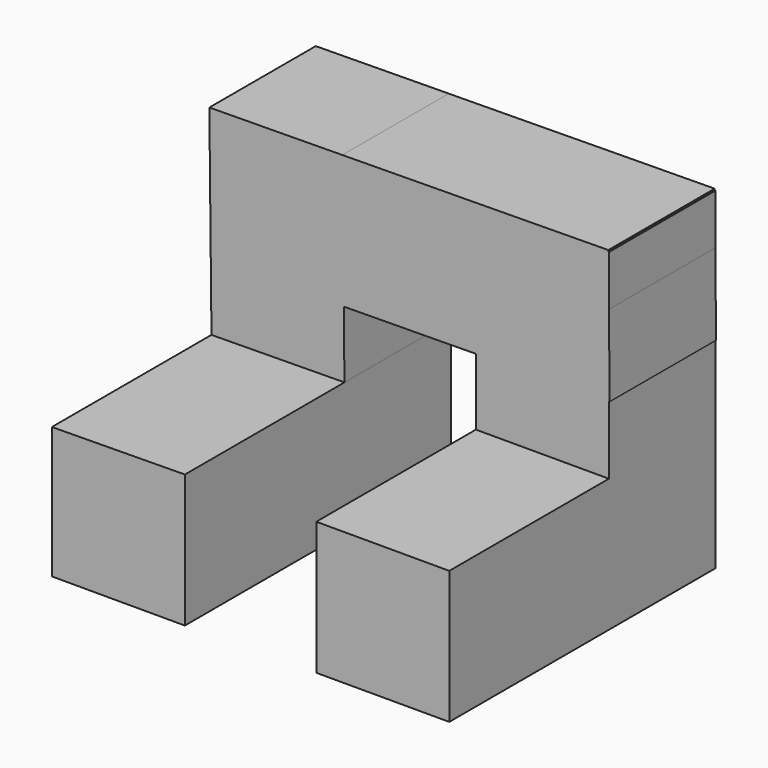
from build123d import *

# Parameters (mm, degrees)
F1_DEPTH = 127
F0_W     = 50.8
F0_H     = 50.8
F2_DEPTH = 127
F3_W     = 50.8
F3_H     = 50.8
F4_DEPTH = 76.2
F5_W     = 50.8
F5_H     = 50.8
F6_DEPTH = 76.2
F7_W     = 50.8
F7_H     = 50.8
F8_DEPTH = 101.6


with BuildPart() as f1:
    # F0 (on Front) → F1 (new body)
    with BuildSketch(Plane.XZ):
        Polygon((-29.016551, 16.690897), (-79.813677, 16.150502), (-79.813677, -34.109103), (-29.016551, -34.109103), align=None)
    extrude(amount=F1_DEPTH)

    # F3 (on face) → F4 (join)
    with BuildSketch(Plane(origin=(-0.180826, 0, 16.99766), x_dir=(0.999943, 0, 0.010638), z_dir=(-0.010638, 0, 0.999943))):
        with Locations((-54.237357, -25.4)):
            Rectangle(F3_W, F3_H)
    extrude(amount=F4_DEPTH)



with BuildPart() as f2:
    # F0 (on Front) → F2 (new body)
    with BuildSketch(Plane.XZ):
        with Locations((46.57851, -8.262248)):
            Rectangle(F0_W, F0_H)
    extrude(amount=F2_DEPTH)

    # F5 (on face) → F6 (join)
    with BuildSketch(Plane.XY.offset(17.137752)):
        with Locations((46.57851, -25.4)):
            Rectangle(F5_W, F5_H)
    extrude(amount=F6_DEPTH)


with BuildPart() as f1_1:
    add(f1.part)

    add(f2.part)  # F8 merges F2
    # F7 (on face) → F8 (join)
    with BuildSketch(Plane(origin=(-28.835725, 0, -0.306763), x_dir=(0, 1, 0), z_dir=(0.999943, 0, 0.010638))):
        with Locations((-25.4, 67.798622)):
            Rectangle(F7_W, F7_H)
    extrude(amount=F8_DEPTH)


solid = f1_1.part
